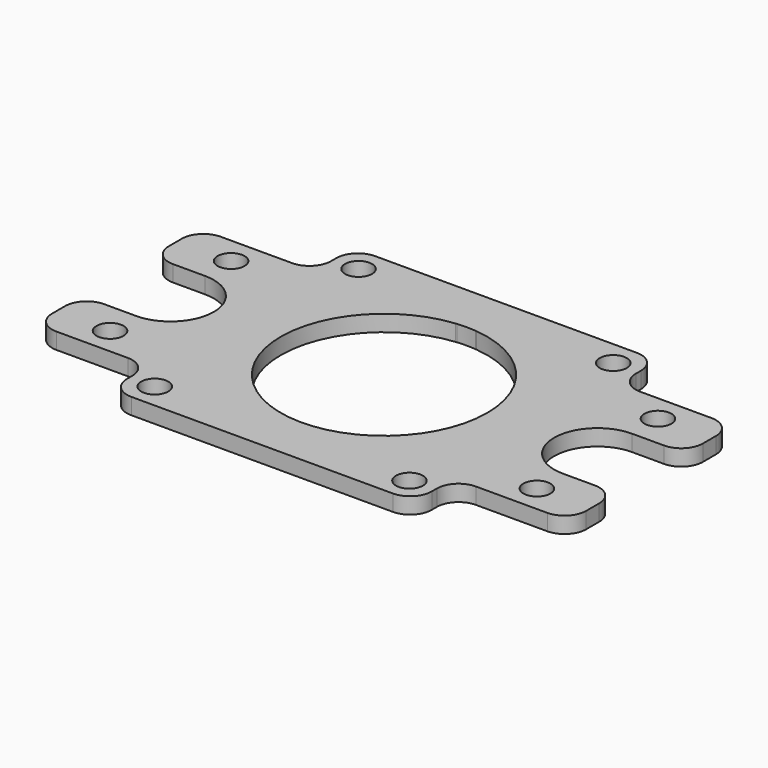
from build123d import *

# Parameters (mm, degrees)
F0_R     = 2.5
F1_DEPTH = 3
F2_R     = 4


with BuildPart() as f1:
    # F0 (on Top) → F1 (new body)
    with BuildSketch(Plane.XY):
        with BuildLine():
            Line((-37.006066629, 43.3700063947), (-63.2541444994, 43.3700063947))
            Line((-63.2541444994, 43.3700063947), (-63.2541444994, 5.3700063947))
            Line((-63.2541444994, 5.3700063947), (-37.006066629, 5.3700063947))
            ThreePointArc((-37.006066629, 5.3700063947), (-54.1541444994, 24.3700063947), (-37.006066629, 43.3700063947))
        make_face()
        with BuildLine():
            Line((-6.8541444994, 43.3700063947), (-33.1022223698, 43.3700063947))
            ThreePointArc((-33.1022223698, 43.3700063947), (-20.8750804845, 37.1670429135), (-15.9541444994, 24.3700063947))
            ThreePointArc((-15.9541444994, 24.3700063947), (-20.8750804845, 11.572969876), (-33.1022223698, 5.3700063947))
            Line((-33.1022223698, 5.3700063947), (-6.8541444994, 5.3700063947))
            Line((-6.8541444994, 5.3700063947), (-6.8541444994, 43.3700063947))
        make_face()
        with BuildLine():
            ThreePointArc((-74.5541444994, 32.3700063947), (-68.8972902499, 30.0268606442), (-66.5541444994, 24.3700063947))
            ThreePointArc((-66.5541444994, 24.3700063947), (-68.8972902499, 18.7131521453), (-74.5541444994, 16.3700063947))
            Line((-74.5541444994, 16.3700063947), (-84.4726338983, 16.3700063947))
            Line((-84.4726338983, 16.3700063947), (-84.4726338983, 5.3700063947))
            Line((-84.4726338983, 5.3700063947), (-63.2541444994, 5.3700063947))
            Line((-63.2541444994, 5.3700063947), (-63.2541444994, 43.3700063947))
            Line((-63.2541444994, 43.3700063947), (-84.4726338983, 43.3700063947))
            Line((-84.4726338983, 43.3700063947), (-84.4726338983, 32.3700063947))
            Line((-84.4726338983, 32.3700063947), (-74.5541444994, 32.3700063947))
        make_face()
        with Locations((-74.5541444994, 10.3700063947)):
            Circle(F0_R, mode=Mode.SUBTRACT)
        with Locations((-74.5541444994, 38.3700063947)):
            Circle(F0_R, mode=Mode.SUBTRACT)
        with BuildLine():
            Line((14.3643448995, 43.3700063947), (-6.8541444994, 43.3700063947))
            Line((-6.8541444994, 43.3700063947), (-6.8541444994, 5.3700063947))
            Line((-6.8541444994, 5.3700063947), (14.3643448995, 5.3700063947))
            Line((14.3643448995, 5.3700063947), (14.3643448995, 16.3700063947))
            Line((14.3643448995, 16.3700063947), (4.4458555006, 16.3700063947))
            ThreePointArc((4.4458555006, 16.3700063947), (-3.5541444994, 24.3700063947), (4.4458555006, 32.3700063947))
            Line((4.4458555006, 32.3700063947), (14.3643448995, 32.3700063947))
            Line((14.3643448995, 32.3700063947), (14.3643448995, 43.3700063947))
        make_face()
        with Locations((4.4458555006, 10.3700063947)):
            Circle(F0_R, mode=Mode.SUBTRACT)
        with Locations((4.4458555006, 38.3700063947)):
            Circle(F0_R, mode=Mode.SUBTRACT)
        with BuildLine():
            Line((-37.006066629, 5.3700063947), (-63.2541444994, 5.3700063947))
            Line((-63.2541444994, 5.3700063947), (-63.2541444994, -3.8299936053))
            Line((-63.2541444994, -3.8299936053), (-6.8541444994, -3.8299936053))
            Line((-6.8541444994, -3.8299936053), (-6.8541444994, 5.3700063947))
            Line((-6.8541444994, 5.3700063947), (-33.1022223698, 5.3700063947))
            ThreePointArc((-33.1022223698, 5.3700063947), (-35.0541444994, 5.2700063947), (-37.006066629, 5.3700063947))
        make_face()
        with Locations((-58.6241444994, 0.8000063947)):
            Circle(F0_R, mode=Mode.SUBTRACT)
        with Locations((-11.4841444994, 0.8000063947)):
            Circle(F0_R, mode=Mode.SUBTRACT)
        with BuildLine():
            Line((-63.2541444994, 52.5700063947), (-63.2541444994, 43.3700063947))
            Line((-63.2541444994, 43.3700063947), (-37.006066629, 43.3700063947))
            ThreePointArc((-37.006066629, 43.3700063947), (-36.8681827001, 43.3836663635), (-36.7302033051, 43.3963257151))
            ThreePointArc((-36.7302033051, 43.3963257151), (-35.0541444994, 43.4700063947), (-33.3780856936, 43.3963257151))
            ThreePointArc((-33.3780856936, 43.3963257151), (-33.2401062987, 43.3836663635), (-33.1022223698, 43.3700063947))
            Line((-33.1022223698, 43.3700063947), (-6.8541444994, 43.3700063947))
            Line((-6.8541444994, 43.3700063947), (-6.8541444994, 52.5700063947))
            Line((-6.8541444994, 52.5700063947), (-63.2541444994, 52.5700063947))
        make_face()
        with Locations((-58.6241444994, 47.9400063947)):
            Circle(F0_R, mode=Mode.SUBTRACT)
        with Locations((-11.4841444994, 47.9400063947)):
            Circle(F0_R, mode=Mode.SUBTRACT)
    extrude(amount=F1_DEPTH)

    # F2
    f2_edges = [f1.edges().sort_by_distance(p)[0] for p in [
        (-6.854144, 52.570006, 1.5),
        (14.364345, 43.370006, 1.5),
        (14.364345, 5.370006, 1.5),
        (-6.854144, -3.829994, 1.5),
        (-63.254144, 52.570006, 1.5),
        (-84.472634, 43.370006, 1.5),
        (-84.472634, 16.370006, 1.5),
        (-84.472634, 32.370006, 1.5),
        (-84.472634, 5.370006, 1.5),
        (-63.254144, -3.829994, 1.5),
        (14.364345, 32.370006, 1.5),
        (14.364345, 16.370006, 1.5),
        (-6.854144, 43.370006, 1.5),
        (-6.854144, 5.370006, 1.5),
        (-63.254144, 5.370006, 1.5),
        (-63.254144, 43.370006, 1.5),
    ]]
    fillet(f2_edges, radius=F2_R)


solid = f1.part
